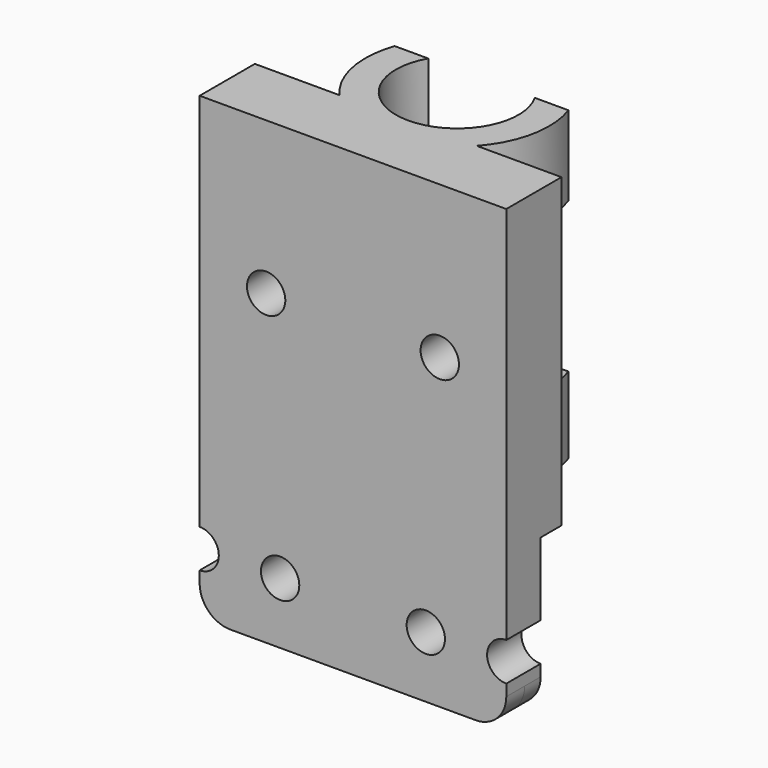
from build123d import *

# Parameters (mm, degrees)
F1_DEPTH  = 20
F3_DEPTH  = 10
F4_R      = 1.25
F5_DEPTH  = 2.2
F7_DEPTH  = 10
F9_R      = 1.25
F10_DEPTH = 28.001
F11_R     = 2
F14_DEPTH = 1.5
F16_W     = 20
F16_H     = 10
F17_DEPTH = 26.7
F19_R     = 1.25
F20_DEPTH = 32.1
F22_W     = 20
F22_H     = 9.2705127583
F23_DEPTH = 6.9
F24_DEPTH = 2.9
F25_R     = 1.25
F26_DEPTH = 12.5


with BuildPart() as f1:
    # F0 (on Top) → F1 (new body)
    with BuildSketch(Plane.XY):
        with BuildLine():
            Line((-17.4218026286, 7.8075558554), (-19.6106751933, 7.8075558554))
            ThreePointArc((-19.6106751933, 7.8075558554), (-13.947676921, -0.1749805422), (-8.2846786486, 7.8075558554))
            Line((-8.2846786486, 7.8075558554), (-10.4735512133, 7.8075558554))
            ThreePointArc((-10.4735512133, 7.8075558554), (-13.947676921, 1.8250194578), (-17.4218026286, 7.8075558554))
        make_face()
    extrude(amount=F1_DEPTH)

    # F2 (on Top) → F3 (join, symmetric)
    with BuildSketch(Plane.XY):
        Polygon((-3.947676921, 1.8250194578), (-13.947676921, 1.8250194578), (-23.947676921, 1.8250194578), (-23.947676921, -1.1749805422), (-3.947676921, -1.1749805422), align=None)
    extrude(amount=F3_DEPTH, both=True)

    # F4 (on Front) → F5 (cut, symmetric)
    with BuildSketch(Plane.XZ):
        with Locations((-9.197676921, -6)):
            Circle(F4_R)
        with Locations((-18.697676921, -6)):
            Circle(F4_R)
    extrude(amount=F5_DEPTH, both=True, mode=Mode.SUBTRACT)

    # F6 (on face) → F7 (join, through all)
    with BuildSketch(Plane.XY.offset(10)):
        with BuildLine():
            Line((-3.947676921, 1.8250194578), (-9.475540966, 1.8250194578))
            ThreePointArc((-9.475540966, 1.8250194578), (-13.947676921, -0.1749805422), (-18.419812876, 1.8250194578))
            Line((-18.419812876, 1.8250194578), (-23.947676921, 1.8250194578))
            Line((-23.947676921, 1.8250194578), (-23.947676921, -1.1749805422))
            Line((-23.947676921, -1.1749805422), (-3.947676921, -1.1749805422))
            Line((-3.947676921, -1.1749805422), (-3.947676921, 1.8250194578))
        make_face()
    extrude(amount=F7_DEPTH)

    # F9 (on offset) → F10 (cut, through all)
    with BuildSketch(Plane(origin=(0, 26.8250194578, 0), x_dir=(-1, 0, 0), z_dir=(0, 1, 0))):
        with Locations((23.947676921, -6)):
            Circle(F9_R)
        with Locations((3.947676921, -6)):
            Circle(F9_R)
    extrude(amount=-F10_DEPTH, mode=Mode.SUBTRACT)

    # F11
    f11_edges = [f1.edges().sort_by_distance(p)[0] for p in [
        (-23.947677, 0.325019, -10),
        (-3.947677, 0.325019, -10),
    ]]
    fillet(f11_edges, radius=F11_R)

    # F13 (on offset) → F14 (join)
    with BuildSketch(Plane.XZ.offset(1.1749805422)):
        with BuildLine():
            ThreePointArc((-23.947676921, -4.75), (-22.697676921, -6), (-23.947676921, -7.25))
            Line((-23.947676921, -7.25), (-23.947676921, -8))
            ThreePointArc((-23.947676921, -8), (-23.3618904833, -9.4142135624), (-21.947676921, -10))
            Line((-21.947676921, -10), (-5.947676921, -10))
            ThreePointArc((-5.947676921, -10), (-4.5334633586, -9.4142135624), (-3.947676921, -8))
            Line((-3.947676921, -8), (-3.947676921, -7.25))
            ThreePointArc((-3.947676921, -7.25), (-5.197676921, -6), (-3.947676921, -4.75))
            Line((-3.947676921, -4.75), (-3.947676921, 20))
            Line((-3.947676921, 20), (-23.947676921, 20))
            Line((-23.947676921, 20), (-23.947676921, -4.75))
        make_face()
    extrude(amount=F14_DEPTH)

    # F16 (on offset) → F17 (cut)
    with BuildSketch(Plane(origin=(0, 26.8250194578, 0), x_dir=(-1, 0, 0), z_dir=(0, 1, 0))):
        with Locations((13.947676921, -5)):
            Rectangle(F16_W, F16_H)
    extrude(amount=-F17_DEPTH, mode=Mode.SUBTRACT)

    # F19 (on offset) → F20 (cut)
    with BuildSketch(Plane.XZ.offset(25)):
        with Locations((-9.197676921, -6)):
            Circle(F19_R)
        with Locations((-18.697676921, -6)):
            Circle(F19_R)
    extrude(amount=-F20_DEPTH, mode=Mode.SUBTRACT)

    # F22 (on offset) → F23 (cut)
    with BuildSketch(Plane.XY.offset(11.9)):
        with Locations((-13.947676921, 6.460275837)):
            Rectangle(F22_W, F22_H)
    extrude(amount=-F23_DEPTH, mode=Mode.SUBTRACT)

    # F22 (on offset) → F24 (cut)
    with BuildSketch(Plane.XY.offset(11.9)):
        with Locations((-13.947676921, 6.460275837)):
            Rectangle(F22_W, F22_H)
    extrude(amount=F24_DEPTH, mode=Mode.SUBTRACT)

    # F25 (on offset) → F26 (cut, symmetric)
    with BuildSketch(Plane(origin=(0, 1.8250194578, 0), x_dir=(-1, 0, 0), z_dir=(0, 1, 0))):
        with Locations((8.2846786486, 10.0688289385)):
            Circle(F25_R)
        with Locations((19.6106751933, 10.0688289385)):
            Circle(F25_R)
    extrude(amount=F26_DEPTH, both=True, mode=Mode.SUBTRACT)


solid = f1.part
